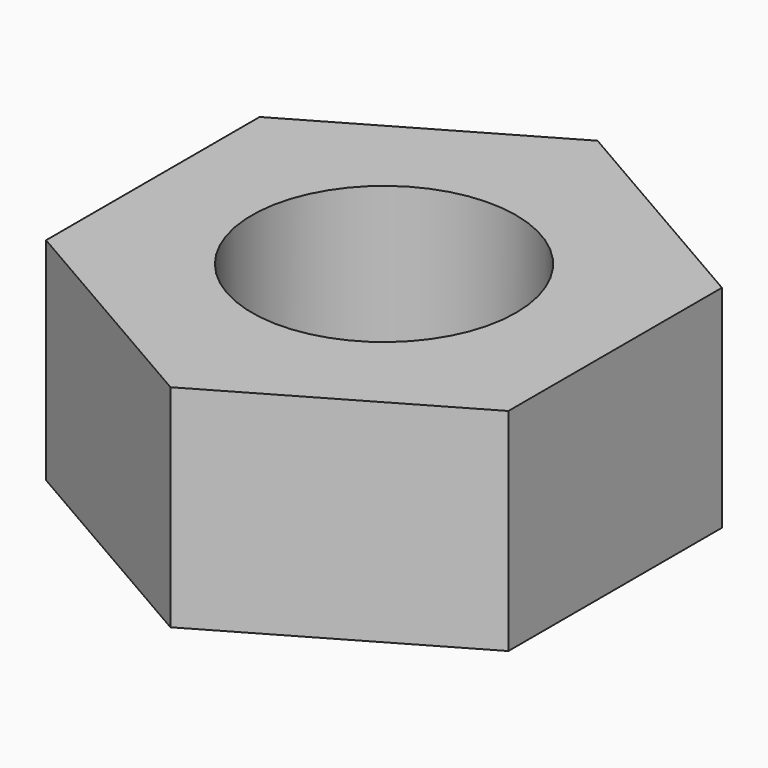
from build123d import *

# Parameters (mm, degrees)
SKETCH_R  = 2
PAD_DEPTH = 3.2


with BuildPart() as part:
    # Sketch → Pad (new body)
    with BuildSketch(Plane.XY):
        Polygon((3.5, 2.020726), (0, 4.041452), (-3.5, 2.020726), (-3.5, -2.020726), (0, -4.041452), (3.5, -2.020726), align=None)
        Circle(SKETCH_R, mode=Mode.SUBTRACT)
    extrude(amount=PAD_DEPTH)


solid = part.part
